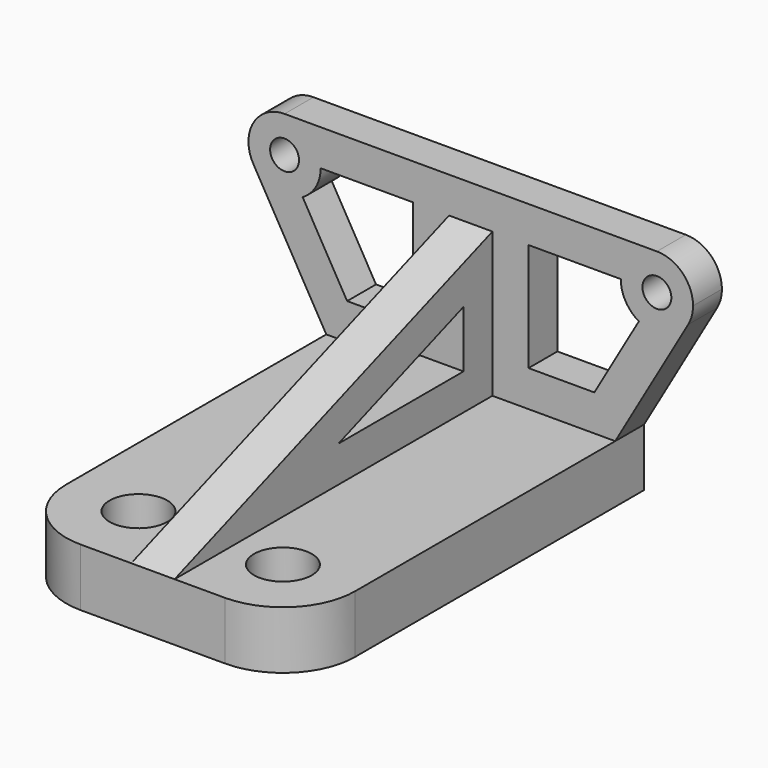
from build123d import *

# Parameters (mm, degrees)
F0_R     = 2
F1_DEPTH = 5
F2_DEPTH = 60
F4_DEPTH = 3
F5_R     = 4
F6_DEPTH = 8.001
F7_R     = 10


with BuildPart() as f1:
    # F0 (on Front) → F1 (new body)
    with BuildSketch(Plane.XZ):
        with BuildLine():
            Line((-20, 0), (-3, 0))
            Line((-3, 0), (-3, 20))
            Line((-3, 20), (0, 20))
            Line((0, 20), (3, 20))
            Line((3, 20), (3, 0))
            Line((3, 0), (20, 0))
            Line((20, 0), (30.1036297108, 17.5))
            ThreePointArc((30.1036297108, 17.5), (27.0675979174, 15.1703708686), (23.2735026919, 15.6698729811))
            Line((23.2735026919, 15.6698729811), (17.1132486541, 5))
            Line((17.1132486541, 5), (8, 5))
            Line((8, 5), (8, 20))
            Line((8, 20), (20.7735026919, 20))
            ThreePointArc((20.7735026919, 20), (22.237968786, 23.5355339059), (25.7735026919, 25))
            Line((25.7735026919, 25), (0, 25))
            Line((0, 25), (-25.7735026919, 25))
            ThreePointArc((-25.7735026919, 25), (-22.237968786, 23.5355339059), (-20.7735026919, 20))
            Line((-20.7735026919, 20), (-8, 20))
            Line((-8, 20), (-8, 5))
            Line((-8, 5), (-17.1132486541, 5))
            Line((-17.1132486541, 5), (-23.2735026919, 15.6698729811))
            ThreePointArc((-23.2735026919, 15.6698729811), (-27.0675979174, 15.1703708686), (-30.1036297108, 17.5))
            Line((-30.1036297108, 17.5), (-20, 0))
        make_face()
        with BuildLine():
            ThreePointArc((-25.7735026919, 25), (-30.1036297108, 22.5), (-30.1036297108, 17.5))
            ThreePointArc((-30.1036297108, 17.5), (-27.0675979174, 15.1703708686), (-23.2735026919, 15.6698729811))
            ThreePointArc((-23.2735026919, 15.6698729811), (-21.443375673, 17.5), (-20.7735026919, 20))
            ThreePointArc((-20.7735026919, 20), (-22.237968786, 23.5355339059), (-25.7735026919, 25))
        make_face()
        with Locations((-25.7735026919, 20)):
            Circle(F0_R, mode=Mode.SUBTRACT)
        with BuildLine():
            ThreePointArc((23.2735026919, 15.6698729811), (27.0675979174, 15.1703708686), (30.1036297108, 17.5))
            ThreePointArc((30.1036297108, 17.5), (30.6031318233, 18.7059047745), (30.7735026919, 20))
            ThreePointArc((30.7735026919, 20), (29.3090365978, 23.5355339059), (25.7735026919, 25))
            ThreePointArc((25.7735026919, 25), (22.237968786, 23.5355339059), (20.7735026919, 20))
            ThreePointArc((20.7735026919, 20), (21.443375673, 17.5), (23.2735026919, 15.6698729811))
        make_face()
        with Locations((25.7735026919, 20)):
            Circle(F0_R, mode=Mode.SUBTRACT)
    extrude(amount=F1_DEPTH)



with BuildPart() as f2:
    # F0 (on Front) → F2 (new body)
    with BuildSketch(Plane.XZ):
        Polygon((3, 0), (0, 0), (0, -8), (20, -8), (20, 0), align=None)
        Polygon((0, -8), (0, 0), (-3, 0), (-20, 0), (-20, -8), align=None)
    extrude(amount=F2_DEPTH)


with BuildPart() as f1_1:
    add(f1.part)

    add(f2.part)  # F4 merges F2
    # F3 (on Right) → F4 (join, symmetric)
    with BuildSketch(Plane.YZ):
        Polygon((0, 21.838214056), (-60, 0), (0, 0), align=None)
        Polygon((-31.6435909019, 5), (-10, 12.8776228509), (-10, 5), align=None, mode=Mode.SUBTRACT)
    extrude(amount=F4_DEPTH, both=True)

    # F5 (on Top) → F6 (cut, through all)
    with BuildSketch(Plane.XY):
        with Locations((-10, -50)):
            Circle(F5_R)
        with Locations((10, -50)):
            Circle(F5_R)
    extrude(amount=-F6_DEPTH, mode=Mode.SUBTRACT)

    # F7
    f7_edges = [f1_1.edges().sort_by_distance(p)[0] for p in [
        (-20, -60, -4),
        (20, -60, -4),
    ]]
    fillet(f7_edges, radius=F7_R)


solid = f1_1.part
